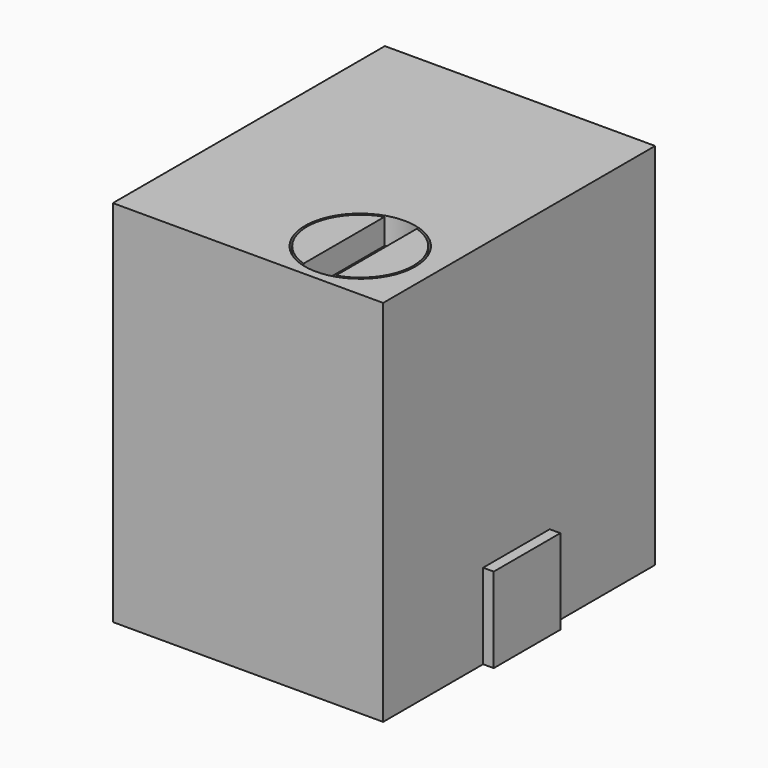
from build123d import *

# Parameters (mm, degrees)
SKETCH_W        = 3.18
SKETCH_H        = 4
PAD_DEPTH       = 4.34
SKETCH001_W     = 0.98
SKETCH001_H     = 1
PAD001_DEPTH    = 0.125
SKETCH002_W     = 0.56
SKETCH002_H     = 0.76
PAD002_DEPTH    = 0.125
SKETCH003_R     = 0.65
POCKET_DEPTH    = 0.5
SKETCH004_R     = 0.625
PAD003_DEPTH    = 0.5
POCKET001_DEPTH = 0.3


with BuildPart() as part:
    # Sketch → Pad (new body)
    with BuildSketch(Plane.XY):
        Rectangle(SKETCH_W, SKETCH_H)
    extrude(amount=PAD_DEPTH)

    # Sketch001 (on Face3 of Pad) → Pad001 (join)
    with BuildSketch(Plane.YZ.offset(1.59)):
        with Locations((-0.04, 0.5)):
            Rectangle(SKETCH001_W, SKETCH001_H)
    extrude(amount=PAD001_DEPTH)

    # Sketch002 (on Face1 of Pad001) → Pad002 (join)
    with BuildSketch(Plane(origin=(-1.59, 0, 0), x_dir=(0, -1, 0), z_dir=(-1, 0, 0))):
        with Locations((-1.38, 0.38)):
            Rectangle(SKETCH002_W, SKETCH002_H)
        with Locations((1.38, 0.38)):
            Rectangle(SKETCH002_W, SKETCH002_H)
    extrude(amount=PAD002_DEPTH)

    # Sketch003 (on Face10 of Pad002) → Pocket (cut)
    with BuildSketch(Plane.XY.offset(4.34)):
        with Locations((0.72, -1.25)):
            Circle(SKETCH003_R)
    extrude(amount=-POCKET_DEPTH, mode=Mode.SUBTRACT)

    # Sketch004 (on Face23 of Pocket) → Pad003 (join)
    with BuildSketch(Plane.XY.offset(3.84)):
        with Locations((0.72, -1.25)):
            Circle(SKETCH004_R)
    extrude(amount=PAD003_DEPTH)

    # Sketch005 (on Face25 of Pad003) → Pocket001 (cut)
    with BuildSketch(Plane.XY.offset(4.34)):
        with BuildLine():
            Line((0.53, -0.65458), (0.53, -1.84542))
            ThreePointArc((0.53, -1.84542), (0.72, -1.875), (0.91, -1.84542))
            Line((0.91, -1.84542), (0.91, -0.65458))
            ThreePointArc((0.91, -0.65458), (0.72, -0.625), (0.53, -0.65458))
        make_face()
    extrude(amount=-POCKET001_DEPTH, mode=Mode.SUBTRACT)


solid = part.part
